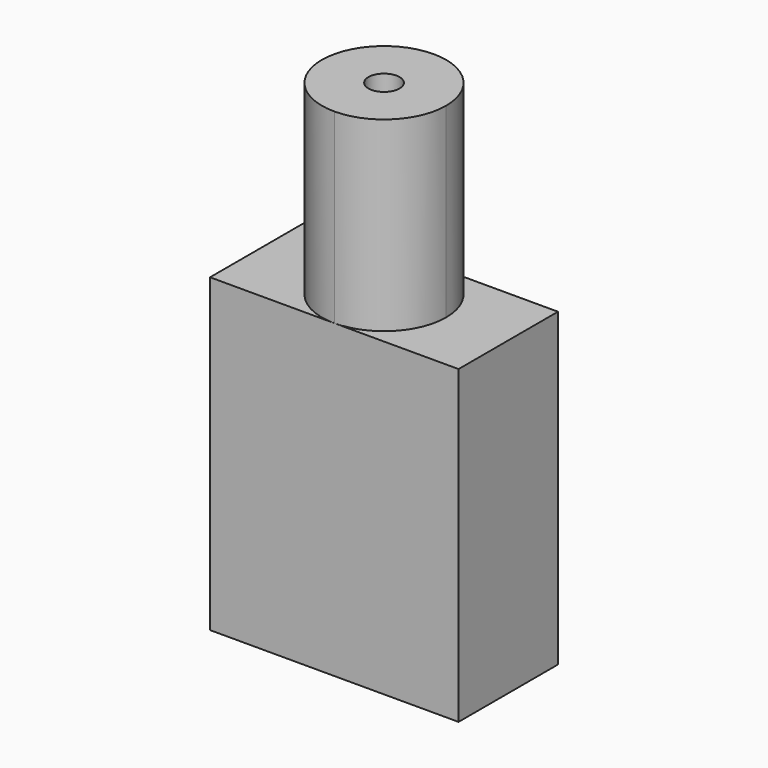
from build123d import *

# Parameters (mm, degrees)
F0_W     = 4
F0_H     = 10
F1_DEPTH = 8
F2_R     = 1.5
F3_DEPTH = 5
F5_DEPTH = 6
F7_D     = 1


with BuildPart() as f1:
    # F0 (on Right) → F1 (new body)
    with BuildSketch(Plane.YZ):
        Rectangle(F0_W, F0_H)
    extrude(amount=F1_DEPTH)

    # F2 (on face) → F3 (cut)
    with BuildSketch(Plane(origin=(0, 0, 0), x_dir=(0, -1, 0), z_dir=(-1, 0, 0))):
        with Locations((0, -3)):
            Circle(F2_R)
    extrude(amount=-F3_DEPTH, mode=Mode.SUBTRACT)

    # F4 (on face) → F5 (join)
    with BuildSketch(Plane.XY.offset(5)):
        with BuildLine():
            ThreePointArc((4, -2), (5.414214, -1.414214), (6, 0))
            ThreePointArc((6, 0), (5.414214, 1.414214), (4, 2))
            ThreePointArc((4, 2), (2, 0), (4, -2))
        make_face()
    extrude(amount=F5_DEPTH)

    # F7 (through all)
    with Locations(Plane.XY.offset(11)):
        with Locations((4, 0)):
            Hole(F7_D / 2)


solid = f1.part
